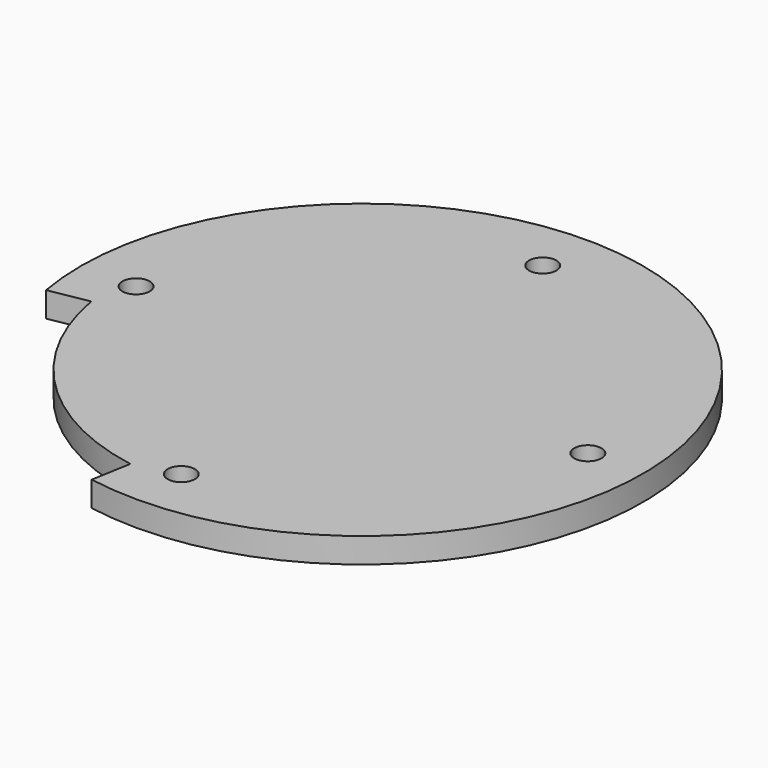
from build123d import *

# Parameters (mm, degrees)
F0_R     = 35.56
F1_DEPTH = 3.175
F3_D     = 3.4544
F3_DEPTH = 11.43
F3_TIP   = 1.0378064612
F5_DEPTH = 3.176


with BuildPart() as f1:
    # F0 (on Top) → F1 (new body)
    with BuildSketch(Plane.XY):
        Circle(F0_R)
    extrude(amount=F1_DEPTH)

    # F3
    with Locations(Plane.XY.offset(3.175)):
        with Locations((-28.575, 0), (0, 28.575), (28.575, 0), (0, -28.575)):
            Hole(F3_D / 2, depth=F3_DEPTH)
            with Locations((0, 0, -(F3_DEPTH + F3_TIP / 2))):  # 118° drill point
                Cone(0, F3_D / 2, F3_TIP, mode=Mode.SUBTRACT)

    # F4 (on face) → F5 (cut, through all)
    with BuildSketch(Plane.XY.offset(3.175)):
        with BuildLine():
            ThreePointArc((-5.2927964553, -30.0169403118), (-21.5526146906, -21.5526146906), (-30.0169403118, -5.2927964553))
            Line((-30.0169403118, -5.2927964553), (-35.0197636971, -6.1749291978))
            ThreePointArc((-35.0197636971, -6.1749291978), (-25.144717139, -25.144717139), (-6.1749291978, -35.0197636971))
            Line((-6.1749291978, -35.0197636971), (-5.2927964553, -30.0169403118))
        make_face()
    extrude(amount=-F5_DEPTH, mode=Mode.SUBTRACT)


solid = f1.part
